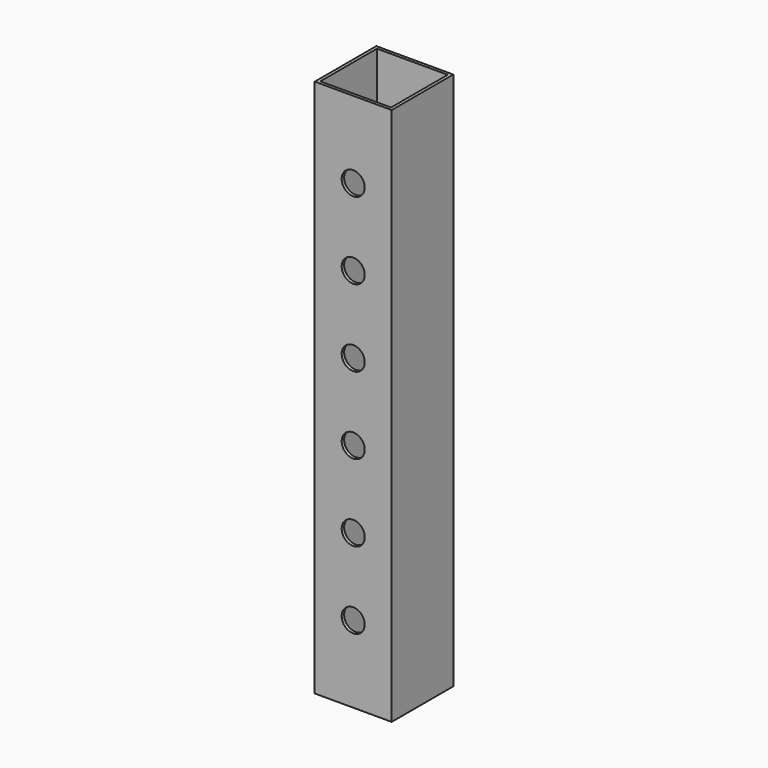
from build123d import *

# Parameters (mm, degrees)
F0_W     = 10
F0_H     = 10
F0_W_2   = 9.2
F0_H_2   = 9.2
F1_DEPTH = 70
F2_R     = 1.5
F3_DEPTH = 25


with BuildPart() as f1:
    # F0 (on Top) → F1 (new body)
    with BuildSketch(Plane.XY):
        Rectangle(F0_W, F0_H)
        Rectangle(F0_W_2, F0_H_2, mode=Mode.SUBTRACT)
    extrude(amount=F1_DEPTH)

    # F2 (on face) → F3 (cut)
    with BuildSketch(Plane(origin=(0, 5, 0), x_dir=(-1, 0, 0), z_dir=(0, 1, 0))):
        with Locations((0, 60)):
            Circle(F2_R)
        with Locations((0, 50)):
            Circle(F2_R)
        with Locations((0, 40)):
            Circle(F2_R)
        with Locations((0, 30)):
            Circle(F2_R)
        with Locations((0, 20)):
            Circle(F2_R)
        with Locations((0, 10)):
            Circle(F2_R)
    extrude(amount=-F3_DEPTH, mode=Mode.SUBTRACT)


solid = f1.part
